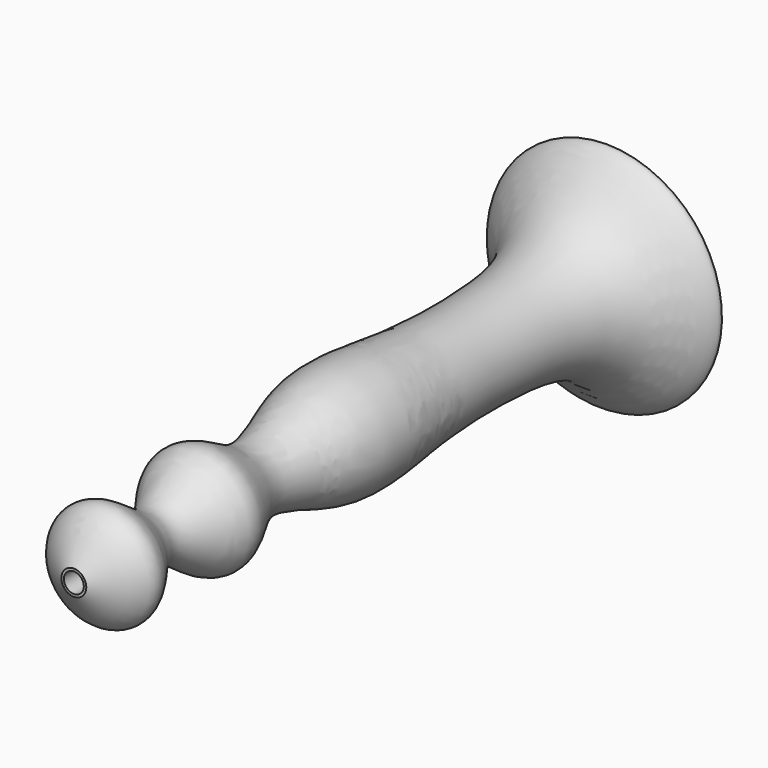
from build123d import *

# Parameters (mm, degrees)
F2_R     = 2
F3_DEPTH = 125


with BuildPart() as f1:
    # F0 (on Right) → F1 (revolve)
    with BuildSketch(Plane.YZ):
        with BuildLine():
            Line((0, 2.5), (0, 0))
            Line((0, 0), (135.0000046659, 0))
            add(Edge.make_bspline(
                [(0, 2.5), (2.4294110594, 6.7389119183), (7.5820229834, 15.6033238149), (19.5899758809, -0.1703517465), (31.0400850508, 15.8633640795), (43.0000307859, 2.494397905), (61.3036213044, 13.5390010452), (82.481618648, 9.5061138137), (105.7426794913, 9.0035987144), (124.2452275507, 11.7162781033), (136.3904192214, 31.2465277552), (135.1456037125, 10.0724175582), (135.0000046659, 0)],
                knots=[0, 0, 0, 0, 0.0839613721, 0.1712762626, 0.2603256169, 0.3478806459, 0.4538557424, 0.5681281382, 0.6874055383, 0.7951804836, 0.8812779073, 1, 1, 1, 1], degree=3))
        make_face()
    revolve(axis=Axis((0, 67.500002333, 0), (0, 1, 0)))

    # F2 (on face) → F3 (cut)
    with BuildSketch(Plane.XZ):
        Circle(F2_R)
    extrude(amount=-F3_DEPTH, mode=Mode.SUBTRACT)


solid = f1.part
